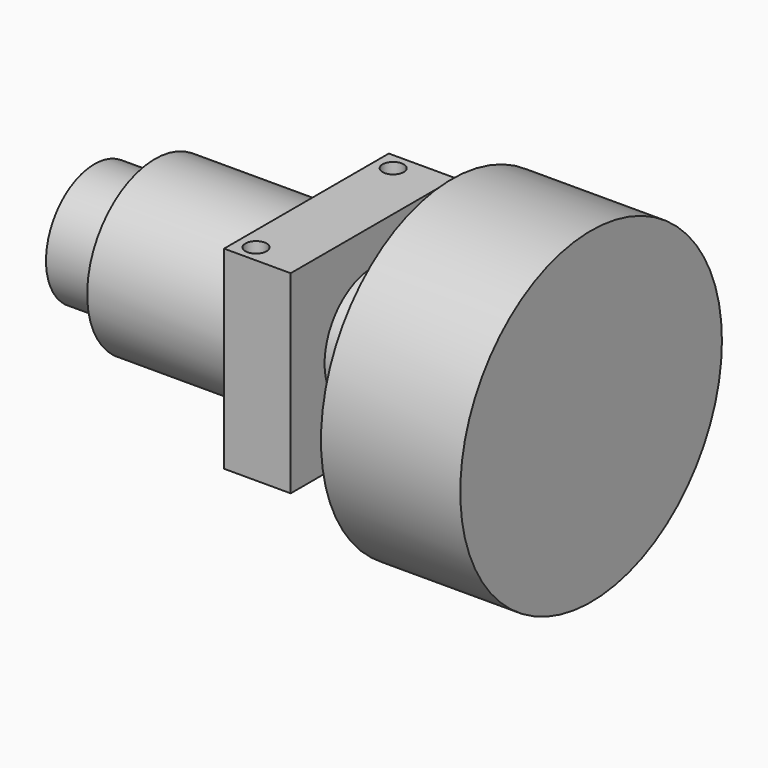
from build123d import *

# Parameters (mm, degrees)
SKETCH_R          = 14
PAD_DEPTH         = 25
SKETCH001_W       = 34
SKETCH001_H       = 32
PAD001_DEPTH      = 11
SKETCH002_R       = 10
PAD002_DEPTH      = 9
SKETCH003_R       = 8
PAD003_DEPTH      = 3
PAD004_DEPTH      = 12
SKETCH005_R       = 1.75
POCKET_DEPTH      = 100
SKETCH006_R       = 27
PAD005_DEPTH      = 12
PAD005_DEPTH_BACK = 11
SKETCH007_R       = 10
PAD006_DEPTH      = 10


with BuildPart() as part:
    # Sketch → Pad (new body)
    with BuildSketch(Plane.YZ):
        Circle(SKETCH_R)
    extrude(amount=-PAD_DEPTH)

    # Sketch001 (on Face2 of Pad) → Pad001 (join)
    with BuildSketch(Plane.YZ):
        Rectangle(SKETCH001_W, SKETCH001_H)
    extrude(amount=PAD001_DEPTH)

    # Sketch002 (on Face5 of Pad001) → Pad002 (join)
    with BuildSketch(Plane.YZ.offset(11)):
        Circle(SKETCH002_R)
    extrude(amount=PAD002_DEPTH)

    # Sketch003 (on Face10 of Pad002) → Pad003 (join)
    with BuildSketch(Plane.YZ.offset(20)):
        Circle(SKETCH003_R)
    extrude(amount=PAD003_DEPTH)

    # Sketch004 (on Face12 of Pad003) → Pad004 (join)
    with BuildSketch(Plane.YZ.offset(23)):
        Polygon((0, 4.041452), (-3.5, 2.020726), (-3.5, -2.020726), (0, -4.041452), (3.5, -2.020726), (3.5, 2.020726), align=None)
    extrude(amount=PAD004_DEPTH)

    # Sketch005 (on Face1 of Pad004) → Pocket (cut)
    with BuildSketch(Plane(origin=(0, 0, 16), x_dir=(0, -1, 0), z_dir=(0, 0, 1))):
        with Locations((-14.15, 3)):
            Circle(SKETCH005_R)
        with Locations((14.15, 3)):
            Circle(SKETCH005_R)
    extrude(amount=-POCKET_DEPTH, mode=Mode.SUBTRACT)

    # Sketch006 (on Face21 of Pocket) → Pad005 (join, two sides)
    with BuildSketch(Plane.YZ.offset(35)) as pad005_sk:
        Circle(SKETCH006_R)
    extrude(amount=PAD005_DEPTH)
    extrude(pad005_sk.sketch, amount=-PAD005_DEPTH_BACK)

    # Sketch007 (on Face11 of Pad005) → Pad006 (join)
    with BuildSketch(Plane(origin=(-25, 0, 0), x_dir=(0, 1, 0), z_dir=(-1, 0, 0))):
        Circle(SKETCH007_R)
    extrude(amount=PAD006_DEPTH)


solid = part.part
